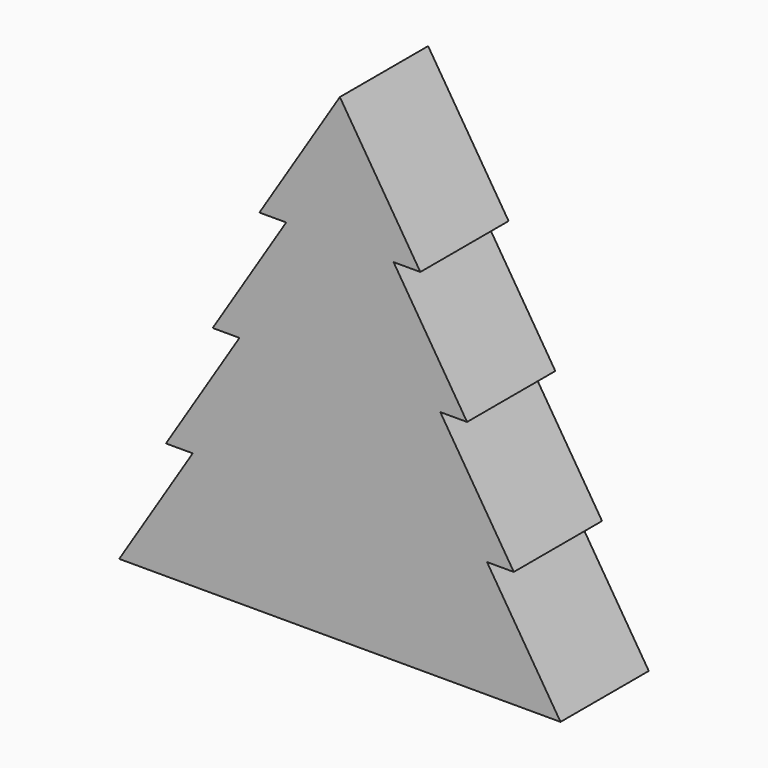
from build123d import *

# Parameters (mm, degrees)
F1_DEPTH = 20
F3_T     = -2


with BuildPart() as f1:
    # F0 (on Front) → F1 (new body)
    with BuildSketch(Plane.XZ):
        Polygon((0, 86.7171336596), (0, 0), (40, 0), (26.6733877361, 21.1794357747), (31.5282256901, 21.1794357747), (18.2016134262, 42.3588715494), (23.0564513803, 42.3588715494), (9.7298391163, 63.5383073241), (14.5846770704, 63.5383073241), align=None)
    extrude(amount=F1_DEPTH)

    # F2: F1 across plane


with BuildPart() as f1_1:
    add(f1.part)
    add(f1.part.mirror(Plane.YZ))

    # F3
    f3_openings = [f1_1.faces().sort_by_distance(p)[0] for p in [
        (0, -10, 0),
    ]]
    offset(amount=F3_T, openings=f3_openings, kind=Kind.INTERSECTION)


solid = f1_1.part
